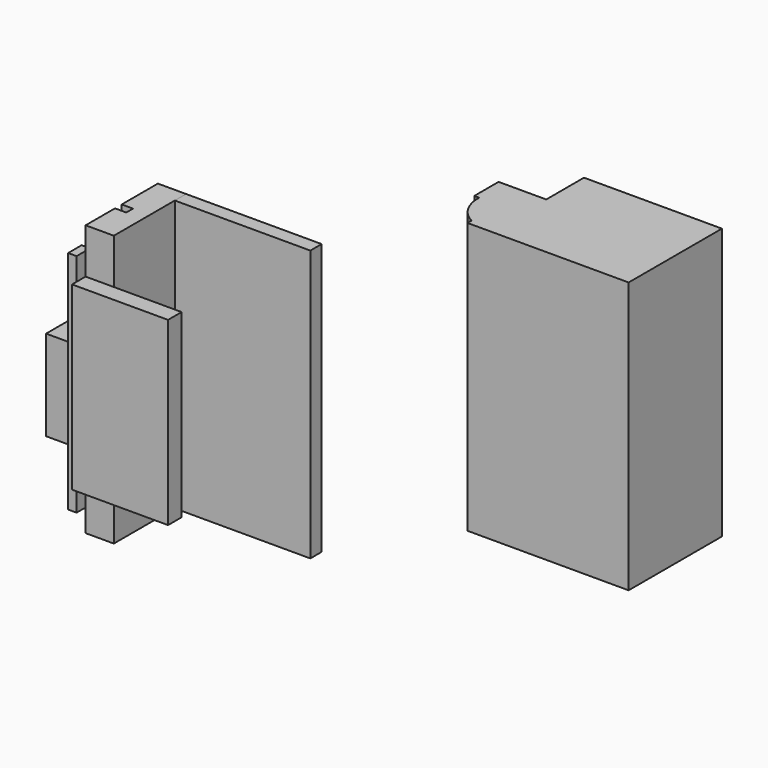
from build123d import *

# Parameters (mm, degrees)
F1_DEPTH      = 304.8
F2_W          = 50.00625
F2_H          = 31.75
F3_DEPTH      = 76.2
F3_DEPTH_BACK = 25.4
F2_W_2        = 9.525
F2_H_2        = 15.875
F4_DEPTH      = 127
F5_DEPTH      = 101.6
F6_DEPTH      = 152.4
F7_DEPTH      = 25.4
F7_DEPTH_BACK = 76.2
F8_DEPTH      = 152.4


with BuildPart() as f1:
    # F0 (on Top) → F1 (new body)
    with BuildSketch(Plane.XY):
        with BuildLine():
            Line((345.289171, 63.131358), (190.168634, 63.131358))
            Line((190.168634, 63.131358), (190.168634, 10.063808))
            Line((190.168634, 10.063808), (136.590838, 10.063808))
            Line((136.590838, 10.063808), (136.590838, -24.123937))
            Line((136.590838, -24.123937), (142.203748, -24.123937))
            ThreePointArc((142.203748, -24.123937), (147.591588, -46.459705), (164.145142, -62.393796))
            Line((164.145142, -62.393796), (164.145142, -68.006705))
            Line((164.145142, -68.006705), (345.289171, -68.006705))
            Line((345.289171, -68.006705), (345.289171, 63.131358))
        make_face()
    extrude(amount=F1_DEPTH)


with BuildPart() as f3:
    # F2 (on Top) → F3 (new body, two sides)
    with BuildSketch(Plane.XY) as f3_sk:
        with Locations((-303.690771, 15.875)):
            Rectangle(F2_W, F2_H)
    extrude(amount=F3_DEPTH)
    extrude(f3_sk.sketch, amount=-F3_DEPTH_BACK)


with BuildPart() as f4:
    # F2 (on Top) → F4 (new body, symmetric)
    with BuildSketch(Plane.XY):
        with Locations((-282.656396, 41.275)):
            Rectangle(F2_W_2, F2_H_2)
        Polygon((-277.893896, -52.3875), (-277.893896, -46.0375), (-287.418896, -46.0375), (-287.418896, -65.0875), (-277.893896, -65.0875), align=None)
        Polygon((-284.243896, -11.1125), (-277.893896, -11.1125), (-265.193896, -11.1125), (-265.193896, -1.5875), (-277.893896, -1.5875), (-284.243896, -1.5875), align=None)
    extrude(amount=F4_DEPTH, both=True)


with BuildPart() as f5:
    # F2 (on Top) → F5 (new body, symmetric)
    with BuildSketch(Plane.XY):
        Polygon((-277.893896, 49.2125), (-246.143896, 49.2125), (-169.943896, 49.2125), (-169.943896, 68.2625), (-277.893896, 68.2625), align=None)
        Polygon((-246.143896, -52.3875), (-277.893896, -52.3875), (-277.893896, -65.0875), (-277.893896, -71.4375), (-169.943896, -71.4375), (-169.943896, -52.3875), align=None)
    extrude(amount=F5_DEPTH, both=True)


with BuildPart() as f6:
    # F2 (on Top) → F6 (new body, symmetric)
    with BuildSketch(Plane.XY):
        Polygon((-277.893896, -11.1125), (-277.893896, -12.7), (-277.893896, -44.45), (-277.893896, -46.0375), (-277.893896, -52.3875), (-246.143896, -52.3875), (-246.143896, 33.3375), (-246.143896, 49.2125), (-277.893896, 49.2125), (-277.893896, 33.3375), (-277.893896, 31.75), (-277.893896, 0), (-277.893896, -1.5875), (-265.193896, -1.5875), (-265.193896, -11.1125), align=None)
    extrude(amount=F6_DEPTH, both=True)


with BuildPart() as f7:
    # F2 (on Top) → F7 (new body, two sides)
    with BuildSketch(Plane.XY) as f7_sk:
        with Locations((-303.690771, -28.575)):
            Rectangle(F2_W, F2_H)
    extrude(amount=F7_DEPTH)
    extrude(f7_sk.sketch, amount=-F7_DEPTH_BACK)


with BuildPart() as f8:
    # F2 (on Top) → F8 (new body, symmetric)
    with BuildSketch(Plane.XY):
        Polygon((-246.143896, 49.2125), (-246.143896, 33.3375), (-93.743896, 33.3375), (-93.743896, 49.2125), (-169.943896, 49.2125), align=None)
    extrude(amount=F8_DEPTH, both=True)


solid = Compound([f1.part, f3.part, f4.part, f5.part, f6.part, f7.part, f8.part])
